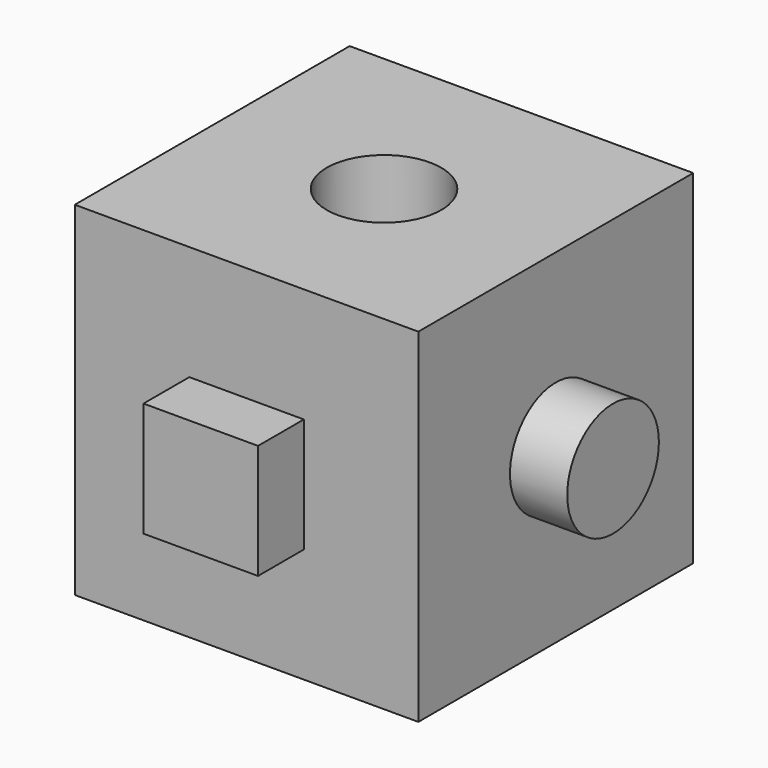
from build123d import *

# Parameters (mm, degrees)
F0_W      = 76.2
F0_H      = 76.2
F1_DEPTH  = 76.2
F2_W      = 25.4
F2_H      = 25.4
F3_DEPTH  = 12.7
F4_R      = 12.7
F5_DEPTH  = 12.7
F7_D      = 25.4
F9_DEPTH  = 12.7
F11_DEPTH = 12.7


with BuildPart() as f1:
    # F0 (on Front) → F1 (new body)
    with BuildSketch(Plane.XZ):
        with Locations((-7.868283, -18.790566)):
            Rectangle(F0_W, F0_H)
    extrude(amount=-F1_DEPTH)

    # F2 (on face) → F3 (join)
    with BuildSketch(Plane.XZ):
        with Locations((-7.868283, -18.790566)):
            Rectangle(F2_W, F2_H)
    extrude(amount=F3_DEPTH)

    # F4 (on face) → F5 (join)
    with BuildSketch(Plane.YZ.offset(30.231717)):
        with Locations((38.1, -18.790566)):
            Circle(F4_R)
    extrude(amount=F5_DEPTH)

    # F7 (through all)
    with Locations(Plane.XY.offset(19.309434)):
        with Locations((-7.868283, 38.1)):
            Hole(F7_D / 2)

    # F8 (on face) → F9 (join)
    with BuildSketch(Plane(origin=(-45.968283, 0, 0), x_dir=(0, -1, 0), z_dir=(-1, 0, 0))):
        Polygon((-25.4, -31.490566), (-37.803471, -9.324964), (-54.146989, -28.768456), (-56.435099, -31.490566), align=None)
    extrude(amount=F9_DEPTH)

    # F10 (on face) → F11 (join)
    with BuildSketch(Plane(origin=(0, 76.2, 0), x_dir=(-1, 0, 0), z_dir=(0, 1, 0))):
        Polygon((-4.831717, -9.884035), (-4.831717, -26.389956), (10.866347, -31.490566), (20.568283, -18.136995), (10.866347, -4.783425), align=None)
    extrude(amount=F11_DEPTH)


solid = f1.part
